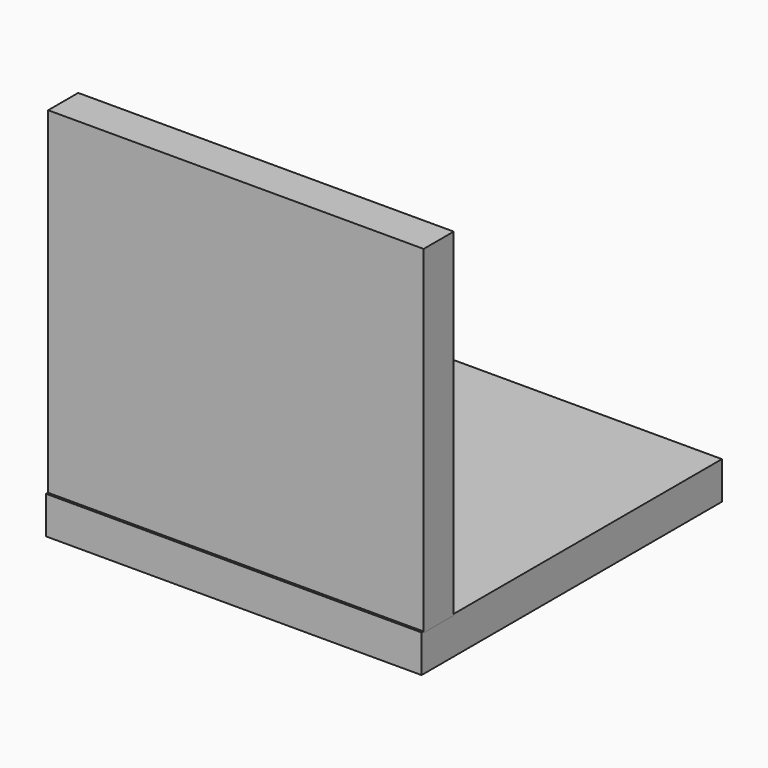
from build123d import *

# Parameters (mm, degrees)
F0_W     = 50
F0_H     = 50
F1_DEPTH = 5
F3_W     = 50
F3_H     = 45
F4_DEPTH = 5


with BuildPart() as f1:
    # F0 (on Top) → F1 (new body)
    with BuildSketch(Plane.XY):
        with Locations((2.926306, -0.312763)):
            Rectangle(F0_W, F0_H)
    extrude(amount=F1_DEPTH)

    # F3 (on offset) → F4 (join)
    with BuildSketch(Plane.XZ.offset(25)):
        with Locations((2.956139, 27.349387)):
            Rectangle(F3_W, F3_H)
    extrude(amount=-F4_DEPTH)


solid = f1.part
